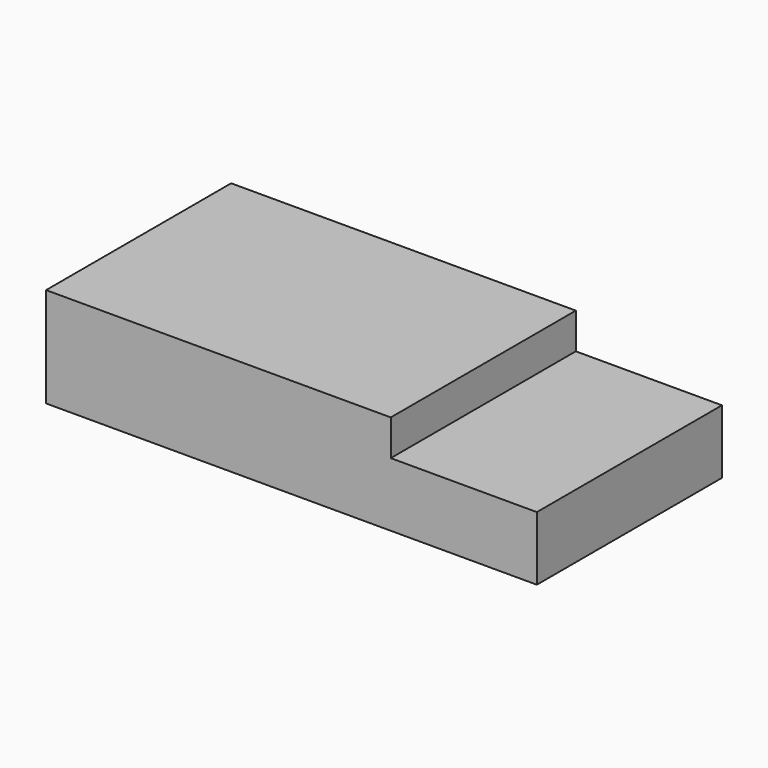
from build123d import *

# Parameters (mm, degrees)
F0_W     = 106.075584
F0_H     = 21.569342
F1_DEPTH = 50
F2_W     = 31.57778
F2_H     = 7.749126
F3_DEPTH = 50


with BuildPart() as f1:
    # F0 (on Front) → F1 (new body)
    with BuildSketch(Plane.XZ):
        Rectangle(F0_W, F0_H)
    extrude(amount=-F1_DEPTH)

    # F2 (on face) → F3 (cut)
    with BuildSketch(Plane.XZ):
        with Locations((37.248902, 6.910108)):
            Rectangle(F2_W, F2_H)
        with Locations((37.248902, 6.910108)):
            Rectangle(F2_W, F2_H)
    extrude(amount=-F3_DEPTH, mode=Mode.SUBTRACT)


solid = f1.part
